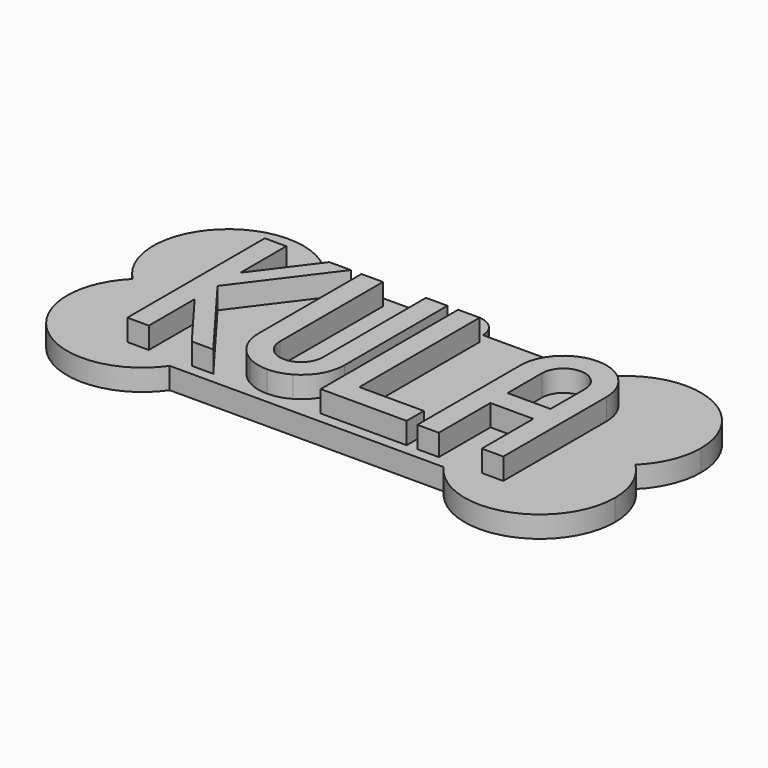
from build123d import *

# Parameters (mm, degrees)
F1_DEPTH = 5
F2_W     = 5
F2_H     = 35
F2_H_2   = 5
F2_W_2   = 15
F2_H_3   = 15
F3_DEPTH = 5


with BuildPart() as f1:
    # F0 (on Top) → F1 (new body)
    with BuildSketch(Plane.XY):
        with BuildLine():
            Line((-92.5, 45), (-78.1385933837, 45))
            ThreePointArc((-78.1385933837, 45), (-103.7995444379, 48.3630196998), (-104.7474487139, 22.5))
            ThreePointArc((-104.7474487139, 22.5), (-99.1143782777, 26.201851746), (-92.5, 27.5))
            Line((-92.5, 27.5), (-92.5, 45))
        make_face()
        with BuildLine():
            Line((-92.5, 17.5), (-92.5, 27.5))
            ThreePointArc((-92.5, 27.5), (-99.1143782777, 26.201851746), (-104.7474487139, 22.5))
            ThreePointArc((-104.7474487139, 22.5), (-99.1143782777, 18.798148254), (-92.5, 17.5))
        make_face()
        with BuildLine():
            ThreePointArc((-92.5, 17.5), (-99.1143782777, 18.798148254), (-104.7474487139, 22.5))
            ThreePointArc((-104.7474487139, 22.5), (-103.7995444379, -3.3630196998), (-78.1385933837, 0))
            Line((-78.1385933837, 0), (-92.5, 0))
            Line((-92.5, 0), (-92.5, 17.5))
        make_face()
        with BuildLine():
            Line((-90, 17.6794919243), (-90, 27.3205080757))
            ThreePointArc((-90, 27.3205080757), (-91.2467824061, 27.4550693399), (-92.5, 27.5))
            Line((-92.5, 27.5), (-92.5, 17.5))
            ThreePointArc((-92.5, 17.5), (-91.2467824061, 17.5449306601), (-90, 17.6794919243))
        make_face()
        with BuildLine():
            Line((-90, 27.3205080757), (-90, 42.5))
            Line((-90, 42.5), (-76.6886116992, 42.5))
            ThreePointArc((-76.6886116992, 42.5), (-77.3619060553, 43.7799835832), (-78.1385933837, 45))
            Line((-78.1385933837, 45), (-92.5, 45))
            Line((-92.5, 45), (-92.5, 27.5))
            ThreePointArc((-92.5, 27.5), (-91.2467824061, 27.4550693399), (-90, 27.3205080757))
        make_face()
        with BuildLine():
            Line((-76.6886116992, 42.5), (-90, 42.5))
            Line((-90, 42.5), (-90, 27.3205080757))
            ThreePointArc((-90, 27.3205080757), (-84.7423498777, 25.6865823104), (-80.2525512861, 22.5))
            ThreePointArc((-80.2525512861, 22.5), (-76.3664890291, 28.2206324961), (-75, 35))
            ThreePointArc((-75, 35), (-75.4273713907, 38.843872054), (-76.6886116992, 42.5))
        make_face()
        with BuildLine():
            ThreePointArc((-80.2525512861, 22.5), (-84.7423498777, 25.6865823104), (-90, 27.3205080757))
            Line((-90, 27.3205080757), (-90, 17.6794919243))
            ThreePointArc((-90, 17.6794919243), (-84.7423498777, 19.3134176896), (-80.2525512861, 22.5))
        make_face()
        with BuildLine():
            ThreePointArc((-80.2525512861, 22.5), (-84.7423498777, 19.3134176896), (-90, 17.6794919243))
            Line((-90, 17.6794919243), (-90, 2.5))
            Line((-90, 2.5), (-76.6886116992, 2.5))
            ThreePointArc((-76.6886116992, 2.5), (-75.4273713907, 6.156127946), (-75, 10))
            ThreePointArc((-75, 10), (-76.3664890291, 16.7793675039), (-80.2525512861, 22.5))
        make_face()
        with BuildLine():
            Line((-90, 2.5), (-90, 17.6794919243))
            ThreePointArc((-90, 17.6794919243), (-91.2467824061, 17.5449306601), (-92.5, 17.5))
            Line((-92.5, 17.5), (-92.5, 0))
            Line((-92.5, 0), (-78.1385933837, 0))
            ThreePointArc((-78.1385933837, 0), (-77.3619060553, 1.2200164168), (-76.6886116992, 2.5))
            Line((-76.6886116992, 2.5), (-90, 2.5))
        make_face()
        with BuildLine():
            Line((-70, 42.5), (-76.6886116992, 42.5))
            ThreePointArc((-76.6886116992, 42.5), (-75.4273713907, 38.843872054), (-75, 35))
            ThreePointArc((-75, 35), (-76.3664890291, 28.2206324961), (-80.2525512861, 22.5))
            ThreePointArc((-80.2525512861, 22.5), (-76.3664890291, 16.7793675039), (-75, 10))
            ThreePointArc((-75, 10), (-75.4273713907, 6.156127946), (-76.6886116992, 2.5))
            Line((-76.6886116992, 2.5), (-70, 2.5))
            Line((-70, 2.5), (-70, 42.5))
        make_face()
        with BuildLine():
            ThreePointArc((-78.1385933837, 45), (-77.3619060553, 43.7799835832), (-76.6886116992, 42.5))
            Line((-76.6886116992, 42.5), (-70, 42.5))
            Line((-70, 42.5), (-70, 2.5))
            Line((-70, 2.5), (-76.6886116992, 2.5))
            ThreePointArc((-76.6886116992, 2.5), (-77.3619060553, 1.2200164168), (-78.1385933837, 0))
            Line((-78.1385933837, 0), (-14.3614066163, 0))
            ThreePointArc((-14.3614066163, 0), (-15.1380939447, 1.2200164168), (-15.8113883008, 2.5))
            Line((-15.8113883008, 2.5), (-22.5, 2.5))
            Line((-22.5, 2.5), (-22.5, 42.5))
            Line((-22.5, 42.5), (-15.8113883008, 42.5))
            ThreePointArc((-15.8113883008, 42.5), (-15.1380939447, 43.7799835832), (-14.3614066163, 45))
            Line((-14.3614066163, 45), (-41.25, 45))
            ThreePointArc((-41.25, 45), (-41.4203708686, 43.7059047745), (-41.9198729811, 42.5))
            Line((-41.9198729811, 42.5), (-25, 42.5))
            Line((-25, 42.5), (-25, 2.5))
            Line((-25, 2.5), (-45, 2.5))
            Line((-45, 2.5), (-45, 40.1587708172))
            ThreePointArc((-45, 40.1587708172), (-46.25, 40), (-47.5, 40.1587708172))
            Line((-47.5, 40.1587708172), (-47.5, 2.5))
            Line((-47.5, 2.5), (-67.5, 2.5))
            Line((-67.5, 2.5), (-67.5, 42.5))
            Line((-67.5, 42.5), (-50.5801270189, 42.5))
            ThreePointArc((-50.5801270189, 42.5), (-51.0796291314, 43.7059047745), (-51.25, 45))
            Line((-51.25, 45), (-78.1385933837, 45))
        make_face()
        with BuildLine():
            ThreePointArc((-47.5, 40.1587708172), (-49.275688832, 41.0193961398), (-50.5801270189, 42.5))
            Line((-50.5801270189, 42.5), (-67.5, 42.5))
            Line((-67.5, 42.5), (-67.5, 2.5))
            Line((-67.5, 2.5), (-47.5, 2.5))
            Line((-47.5, 2.5), (-47.5, 40.1587708172))
        make_face()
        with BuildLine():
            Line((-47.5, 42.5), (-50.5801270189, 42.5))
            ThreePointArc((-50.5801270189, 42.5), (-49.275688832, 41.0193961398), (-47.5, 40.1587708172))
            Line((-47.5, 40.1587708172), (-47.5, 42.5))
        make_face()
        with BuildLine():
            ThreePointArc((-45, 40.1587708172), (-43.224311168, 41.0193961398), (-41.9198729811, 42.5))
            Line((-41.9198729811, 42.5), (-45, 42.5))
            Line((-45, 42.5), (-45, 40.1587708172))
        make_face()
        with BuildLine():
            Line((-25, 42.5), (-41.9198729811, 42.5))
            ThreePointArc((-41.9198729811, 42.5), (-43.224311168, 41.0193961398), (-45, 40.1587708172))
            Line((-45, 40.1587708172), (-45, 2.5))
            Line((-45, 2.5), (-25, 2.5))
            Line((-25, 2.5), (-25, 42.5))
        make_face()
        with BuildLine():
            ThreePointArc((-12.2474487139, 22.5), (-17.2285978436, 31.9299159059), (-15.8113883008, 42.5))
            Line((-15.8113883008, 42.5), (-22.5, 42.5))
            Line((-22.5, 42.5), (-22.5, 2.5))
            Line((-22.5, 2.5), (-15.8113883008, 2.5))
            ThreePointArc((-15.8113883008, 2.5), (-17.2285978436, 13.0700840941), (-12.2474487139, 22.5))
        make_face()
        with BuildLine():
            Line((-2.5, 42.5), (-15.8113883008, 42.5))
            ThreePointArc((-15.8113883008, 42.5), (-17.2285978436, 31.9299159059), (-12.2474487139, 22.5))
            ThreePointArc((-12.2474487139, 22.5), (-7.7576501223, 25.6865823104), (-2.5, 27.3205080757))
            Line((-2.5, 27.3205080757), (-2.5, 42.5))
        make_face()
        with BuildLine():
            ThreePointArc((17.5, 35), (5.2404858655, 51.6969251029), (-14.3614066163, 45))
            Line((-14.3614066163, 45), (0, 45))
            Line((0, 45), (0, 27.5))
            ThreePointArc((0, 27.5), (6.6143782777, 26.201851746), (12.2474487139, 22.5))
            ThreePointArc((12.2474487139, 22.5), (16.1335109709, 28.2206324961), (17.5, 35))
        make_face()
        with BuildLine():
            Line((0, 0), (-14.3614066163, 0))
            ThreePointArc((-14.3614066163, 0), (5.2404858655, -6.6969251029), (17.5, 10))
            ThreePointArc((17.5, 10), (16.1335109709, 16.7793675039), (12.2474487139, 22.5))
            ThreePointArc((12.2474487139, 22.5), (6.6143782777, 18.798148254), (0, 17.5))
            Line((0, 17.5), (0, 0))
        make_face()
        with BuildLine():
            ThreePointArc((-12.2474487139, 22.5), (-17.2285978436, 13.0700840941), (-15.8113883008, 2.5))
            Line((-15.8113883008, 2.5), (-2.5, 2.5))
            Line((-2.5, 2.5), (-2.5, 17.6794919243))
            ThreePointArc((-2.5, 17.6794919243), (-7.7576501223, 19.3134176896), (-12.2474487139, 22.5))
        make_face()
        with BuildLine():
            ThreePointArc((-2.5, 27.3205080757), (-7.7576501223, 25.6865823104), (-12.2474487139, 22.5))
            ThreePointArc((-12.2474487139, 22.5), (-7.7576501223, 19.3134176896), (-2.5, 17.6794919243))
            Line((-2.5, 17.6794919243), (-2.5, 27.3205080757))
        make_face()
        with BuildLine():
            ThreePointArc((12.2474487139, 22.5), (6.6143782777, 26.201851746), (0, 27.5))
            Line((0, 27.5), (0, 17.5))
            ThreePointArc((0, 17.5), (6.6143782777, 18.798148254), (12.2474487139, 22.5))
        make_face()
        with BuildLine():
            ThreePointArc((-15.8113883008, 2.5), (-15.1380939447, 1.2200164168), (-14.3614066163, 0))
            Line((-14.3614066163, 0), (0, 0))
            Line((0, 0), (0, 17.5))
            ThreePointArc((0, 17.5), (-1.2532175939, 17.5449306601), (-2.5, 17.6794919243))
            Line((-2.5, 17.6794919243), (-2.5, 2.5))
            Line((-2.5, 2.5), (-15.8113883008, 2.5))
        make_face()
        with BuildLine():
            Line((0, 45), (-14.3614066163, 45))
            ThreePointArc((-14.3614066163, 45), (-15.1380939447, 43.7799835832), (-15.8113883008, 42.5))
            Line((-15.8113883008, 42.5), (-2.5, 42.5))
            Line((-2.5, 42.5), (-2.5, 27.3205080757))
            ThreePointArc((-2.5, 27.3205080757), (-1.2532175939, 27.4550693399), (0, 27.5))
            Line((0, 27.5), (0, 45))
        make_face()
        with BuildLine():
            Line((0, 17.5), (0, 27.5))
            ThreePointArc((0, 27.5), (-1.2532175939, 27.4550693399), (-2.5, 27.3205080757))
            Line((-2.5, 27.3205080757), (-2.5, 17.6794919243))
            ThreePointArc((-2.5, 17.6794919243), (-1.2532175939, 17.5449306601), (0, 17.5))
        make_face()
        with BuildLine():
            Line((-48.75, 45), (-51.25, 45))
            ThreePointArc((-51.25, 45), (-51.0796291314, 43.7059047745), (-50.5801270189, 42.5))
            Line((-50.5801270189, 42.5), (-47.5, 42.5))
            Line((-47.5, 42.5), (-47.5, 40.1587708172))
            ThreePointArc((-47.5, 40.1587708172), (-46.25, 40), (-45, 40.1587708172))
            Line((-45, 40.1587708172), (-45, 42.5))
            Line((-45, 42.5), (-41.9198729811, 42.5))
            ThreePointArc((-41.9198729811, 42.5), (-41.4203708686, 43.7059047745), (-41.25, 45))
            Line((-41.25, 45), (-43.75, 45))
            ThreePointArc((-43.75, 45), (-46.25, 42.5), (-48.75, 45))
        make_face()
        with BuildLine():
            ThreePointArc((-41.25, 45), (-46.25, 50), (-51.25, 45))
            Line((-51.25, 45), (-48.75, 45))
            ThreePointArc((-48.75, 45), (-46.25, 47.5), (-43.75, 45))
            Line((-43.75, 45), (-41.25, 45))
        make_face()
        with BuildLine():
            ThreePointArc((-47.5, 40.1587708172), (-49.275688832, 41.0193961398), (-50.5801270189, 42.5))
            Line((-50.5801270189, 42.5), (-67.5, 42.5))
            Line((-67.5, 42.5), (-67.5, 2.5))
            Line((-67.5, 2.5), (-47.5, 2.5))
            Line((-47.5, 2.5), (-47.5, 40.1587708172))
        make_face()
        with BuildLine():
            Line((-25, 42.5), (-41.9198729811, 42.5))
            ThreePointArc((-41.9198729811, 42.5), (-43.224311168, 41.0193961398), (-45, 40.1587708172))
            Line((-45, 40.1587708172), (-45, 2.5))
            Line((-45, 2.5), (-25, 2.5))
            Line((-25, 2.5), (-25, 42.5))
        make_face()
    extrude(amount=F1_DEPTH)

    # F2 (on face) → F3 (join)
    with BuildSketch(Plane.XY.offset(5)):
        Polygon((-85, 42.5), (-90, 42.5), (-90, 22.5), (-85, 29.1666666667), align=None)
        Polygon((-85, 29.1666666667), (-90, 22.5), (-85, 15.8333333333), (-85, 22.5), align=None)
        Polygon((-85, 15.8333333333), (-90, 22.5), (-90, 2.5), (-85, 2.5), align=None)
        Polygon((-85, 22.5), (-85, 15.8333333333), (-75, 2.5), (-70, 2.5), align=None)
        Polygon((-70, 42.5), (-75, 42.5), (-85, 29.1666666667), (-85, 22.5), align=None)
        with BuildLine():
            Line((-62.5, 42.5), (-67.5, 42.5))
            Line((-67.5, 42.5), (-67.5, 12.5))
            ThreePointArc((-67.5, 12.5), (-66.1602540378, 17.5), (-62.5, 21.1602540378))
            Line((-62.5, 21.1602540378), (-62.5, 42.5))
        make_face()
        with BuildLine():
            ThreePointArc((-62.5, 21.1602540378), (-66.1602540378, 17.5), (-67.5, 12.5))
            ThreePointArc((-67.5, 12.5), (-66.1602540378, 7.5), (-62.5, 3.8397459622))
            Line((-62.5, 3.8397459622), (-62.5, 12.5000000871))
            Line((-62.5, 12.5000000871), (-62.5, 21.1602540378))
        make_face()
        with BuildLine():
            Line((-62.5, 12.5000000871), (-62.5, 3.8397459622))
            ThreePointArc((-62.5, 3.8397459622), (-60.088190451, 2.8407417371), (-57.5, 2.5))
            ThreePointArc((-57.5, 2.5), (-54.911809549, 2.8407417371), (-52.5, 3.8397459622))
            Line((-52.5, 3.8397459622), (-52.5, 12.5))
            ThreePointArc((-52.5, 12.5), (-57.5000000436, 7.5), (-62.5, 12.5000000871))
        make_face()
        with BuildLine():
            ThreePointArc((-47.5, 12.5), (-48.8397459622, 17.5), (-52.5, 21.1602540378))
            Line((-52.5, 21.1602540378), (-52.5, 12.5))
            Line((-52.5, 12.5), (-52.5, 3.8397459622))
            ThreePointArc((-52.5, 3.8397459622), (-48.8397459622, 7.5), (-47.5, 12.5))
        make_face()
        with BuildLine():
            Line((-47.5, 42.5), (-52.5, 42.5))
            Line((-52.5, 42.5), (-52.5, 21.1602540378))
            ThreePointArc((-52.5, 21.1602540378), (-48.8397459622, 17.5), (-47.5, 12.5))
            Line((-47.5, 12.5), (-47.5, 42.5))
        make_face()
        with Locations((-42.5, 25)):
            Rectangle(F2_W, F2_H)
        with Locations((-42.5, 5)):
            Rectangle(F2_W, F2_H_2)
        with Locations((-32.5, 5)):
            Rectangle(F2_W_2, F2_H_2)
        with BuildLine():
            ThreePointArc((-17.5, 41.1602540378), (-21.1602540378, 37.5), (-22.5, 32.5))
            ThreePointArc((-22.5, 32.5), (-21.1602540378, 27.5), (-17.5, 23.8397459622))
            Line((-17.5, 23.8397459622), (-17.5, 32.5))
            Line((-17.5, 32.5), (-17.5, 41.1602540378))
        make_face()
        with BuildLine():
            ThreePointArc((-7.5, 41.1602540378), (-9.911809549, 42.1592582629), (-12.5, 42.5))
            ThreePointArc((-12.5, 42.5), (-15.088190451, 42.1592582629), (-17.5, 41.1602540378))
            Line((-17.5, 41.1602540378), (-17.5, 32.5))
            ThreePointArc((-17.5, 32.5), (-12.5, 37.5), (-7.5, 32.5))
            Line((-7.5, 32.5), (-7.5, 41.1602540378))
        make_face()
        with BuildLine():
            ThreePointArc((-2.5, 32.5), (-3.8397459622, 37.5), (-7.5, 41.1602540378))
            Line((-7.5, 41.1602540378), (-7.5, 32.5))
            Line((-7.5, 32.5), (-7.5, 23.8397459622))
            ThreePointArc((-7.5, 23.8397459622), (-3.8397459622, 27.5), (-2.5, 32.5))
        make_face()
        Polygon((-12.5, 22.5), (-17.5, 22.5), (-17.5, 17.5), (-7.5, 17.5), (-7.5, 22.5), align=None)
        with Locations((-20, 20)):
            Rectangle(F2_W, F2_H_2)
        with BuildLine():
            ThreePointArc((-17.5, 23.8397459622), (-21.1602540378, 27.5), (-22.5, 32.5))
            Line((-22.5, 32.5), (-22.5, 22.5))
            Line((-22.5, 22.5), (-17.5, 22.5))
            Line((-17.5, 22.5), (-17.5, 23.8397459622))
        make_face()
        with BuildLine():
            Line((-2.5, 22.5), (-2.5, 32.5))
            ThreePointArc((-2.5, 32.5), (-3.8397459622, 27.5), (-7.5, 23.8397459622))
            Line((-7.5, 23.8397459622), (-7.5, 22.5))
            Line((-7.5, 22.5), (-2.5, 22.5))
        make_face()
        with Locations((-5, 20)):
            Rectangle(F2_W, F2_H_2)
        with Locations((-5, 10)):
            Rectangle(F2_W, F2_H_3)
        with Locations((-20, 10)):
            Rectangle(F2_W, F2_H_3)
    extrude(amount=F3_DEPTH)


solid = f1.part
